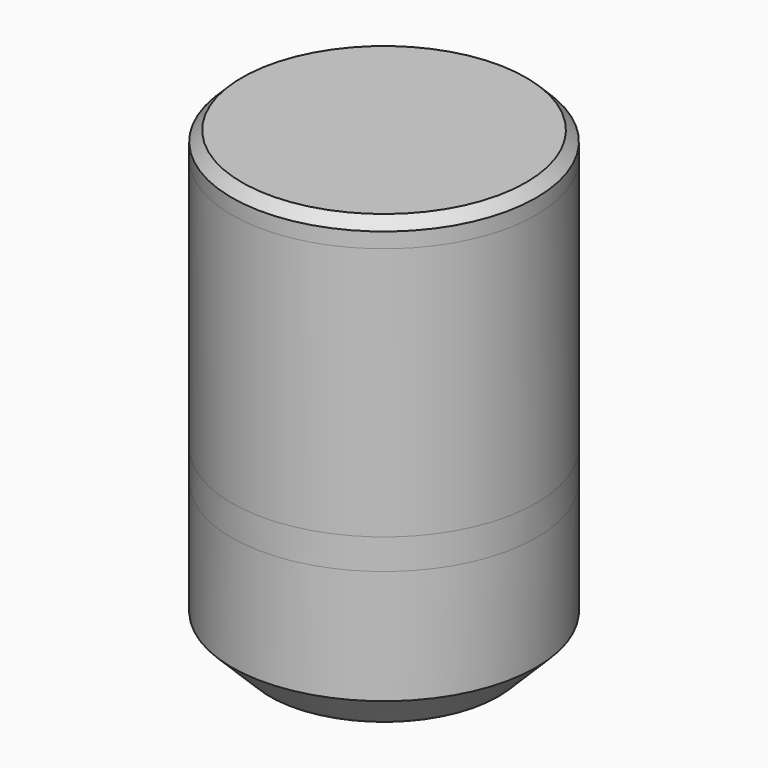
from build123d import *

# Parameters (mm, degrees)
SKETCH_R        = 30
PAD_DEPTH       = 7
SKETCH001_R     = 30
SKETCH001_R_2   = 28.5
POCKET_DEPTH    = 2
CHAMFER001_SIZE = 2
SKETCH002_R     = 30
SKETCH002_R_2   = 28.5
PAD001_DEPTH    = 50
SKETCH003_R     = 28
PAD002_DEPTH    = 9
POCKET001_DEPTH = 8
SKETCH010_R     = 4
POCKET006_DEPTH = 1
SKETCH006_R     = 30
PAD003_DEPTH    = 8
SKETCH007_R     = 28
POCKET003_DEPTH = 4
SKETCH008_R     = 30
SKETCH008_R_2   = 28
SKETCH008_R_3   = 25
POCKET004_DEPTH = 2
SKETCH009_W     = 12
SKETCH009_H     = 17
POCKET005_DEPTH = 2
SKETCH011_R     = 30
PAD004_DEPTH    = 30
CHAMFER_SIZE    = 7.5
SKETCH012_R     = 5
POCKET007_DEPTH = 20
SKETCH013_R     = 28
POCKET008_DEPTH = 6
SKETCH014_R     = 3
POCKET009_DEPTH = 4
SKETCH015_R     = 25
POCKET010_DEPTH = 2
CHAMFER002_SIZE = 1.99


with BuildPart() as cap:
    # Sketch → Pad (new body)
    with BuildSketch(Plane.XY):
        Circle(SKETCH_R)
    extrude(amount=PAD_DEPTH)

    # Sketch001 (on Face2 of Pad) → Pocket (cut)
    with BuildSketch(Plane(origin=(0, 0, 0), x_dir=(1, 0, 0), z_dir=(0, 0, -1))):
        Circle(SKETCH001_R)
        Circle(SKETCH001_R_2, mode=Mode.SUBTRACT)
    extrude(amount=-POCKET_DEPTH, mode=Mode.SUBTRACT)

    # Chamfer001
    chamfer001_edges = [cap.edges().sort_by_distance(p)[0] for p in [
        (-30, 0, 7),
    ]]
    chamfer(chamfer001_edges, length=CHAMFER001_SIZE)


with BuildPart() as cap_1:
    # Body placement: moved
    add(cap.part.moved(Location((0, 0, 54))))


with BuildPart() as obj1:
    # Sketch002 → Pad001 (new body)
    with BuildSketch(Plane.XY):
        Circle(SKETCH002_R)
        Circle(SKETCH002_R_2, mode=Mode.SUBTRACT)
    extrude(amount=PAD001_DEPTH)


with BuildPart() as obj1_1:
    # Body001 placement: moved
    add(obj1.part.moved(Location((0, 0, 6))))


with BuildPart() as cpu:
    # Sketch003 → Pad002 (new body)
    with BuildSketch(Plane.XY):
        Circle(SKETCH003_R)
    extrude(amount=PAD002_DEPTH)

    # Sketch004 (on Face3 of Pad002) → Pocket001 (cut)
    with BuildSketch(Plane.XY.offset(9)):
        with BuildLine():
            Line((-17.5, 19.228885), (17.5, 19.228885))
            Line((17.5, 19.228885), (17.5, -6.771115))
            Line((17.5, -6.771115), (12.5, -6.771115))
            Line((12.5, -11.611796), (12.5, -6.771115))
            ThreePointArc((11.764298, -17.395439), (18.817268, -15.353991), (12.5, -11.611796))
            Line((2.361561, -17.395439), (11.764298, -17.395439))
            Line((2.361561, -17.395439), (2.361561, -20.771115))
            Line((2.361561, -20.771115), (-15.638439, -20.771115))
            Line((-15.638439, -20.771115), (-15.638439, -8.771115))
            Line((-15.638439, -8.771115), (-12.5, -8.771115))
            Line((-12.5, -6.771115), (-12.5, -8.771115))
            Line((-12.5, -6.771115), (-17.5, -6.771115))
            Line((-17.5, -6.771115), (-17.5, 19.228885))
        make_face()
    extrude(amount=-POCKET001_DEPTH, mode=Mode.SUBTRACT)

    # Sketch010 (on Face17 of Pocket001) → Pocket006 (cut)
    with BuildSketch(Plane.XY.offset(1)):
        with Locations((14.849242, -14.849242)):
            Circle(SKETCH010_R)
    extrude(amount=-POCKET006_DEPTH, mode=Mode.SUBTRACT)


with BuildPart() as cpu_1:
    # Body002 placement: moved
    add(cpu.part.moved(Location((0, 0, -5))))


with BuildPart() as led_slice:
    # Sketch006 → Pad003 (new body)
    with BuildSketch(Plane.XY):
        Circle(SKETCH006_R)
    extrude(amount=PAD003_DEPTH)

    # Sketch007 (on Face2 of Pad003) → Pocket003 (cut)
    with BuildSketch(Plane(origin=(0, 0, 0), x_dir=(1, 0, 0), z_dir=(0, 0, -1))):
        Circle(SKETCH007_R)
    extrude(amount=-POCKET003_DEPTH, mode=Mode.SUBTRACT)

    # Sketch008 (on Face3 of Pocket003) → Pocket004 (cut)
    with BuildSketch(Plane.XY.offset(8)):
        Circle(SKETCH008_R)
        Circle(SKETCH008_R_2, mode=Mode.SUBTRACT)
        Circle(SKETCH008_R_3)
    extrude(amount=-POCKET004_DEPTH, mode=Mode.SUBTRACT)

    # Sketch009 (on Face9 of Pocket004) → Pocket005 (cut)
    with BuildSketch(Plane.XY.offset(6)):
        with Locations((0, -15.769322)):
            Rectangle(SKETCH009_W, SKETCH009_H)
    extrude(amount=-POCKET005_DEPTH, mode=Mode.SUBTRACT)


with BuildPart() as socket:
    # Sketch011 → Pad004 (new body)
    with BuildSketch(Plane.XY):
        Circle(SKETCH011_R)
    extrude(amount=-PAD004_DEPTH)

    # Chamfer
    chamfer_edges = [socket.edges().sort_by_distance(p)[0] for p in [
        (-30, 0, -30),
    ]]
    chamfer(chamfer_edges, length=CHAMFER_SIZE)

    # Sketch012 (on Face4 of Chamfer) → Pocket007 (cut)
    with BuildSketch(Plane(origin=(0, 0, -30), x_dir=(1, 0, 0), z_dir=(0, 0, -1))):
        Circle(SKETCH012_R)
    extrude(amount=-POCKET007_DEPTH, mode=Mode.SUBTRACT)

    # Sketch013 (on Face3 of Pocket007) → Pocket008 (cut)
    with BuildSketch(Plane.XY):
        Circle(SKETCH013_R)
    extrude(amount=-POCKET008_DEPTH, mode=Mode.SUBTRACT)

    # Sketch014 (on Face8 of Pocket008) → Pocket009 (cut)
    with BuildSketch(Plane(origin=(0, 0, -10), x_dir=(1, 0, 0), z_dir=(0, 0, -1))):
        Circle(SKETCH014_R)
    extrude(amount=-POCKET009_DEPTH, mode=Mode.SUBTRACT)

    # Sketch015 (on Face7 of Pocket009) → Pocket010 (cut)
    with BuildSketch(Plane.XY.offset(-6)):
        Circle(SKETCH015_R)
    extrude(amount=-POCKET010_DEPTH, mode=Mode.SUBTRACT)

    # Chamfer002
    chamfer002_edges = [socket.edges().sort_by_distance(p)[0] for p in [
        (-5, 0, -10),
    ]]
    chamfer(chamfer002_edges, length=CHAMFER002_SIZE)


solid = Compound([cap_1.part, obj1_1.part, cpu_1.part, led_slice.part, socket.part])
